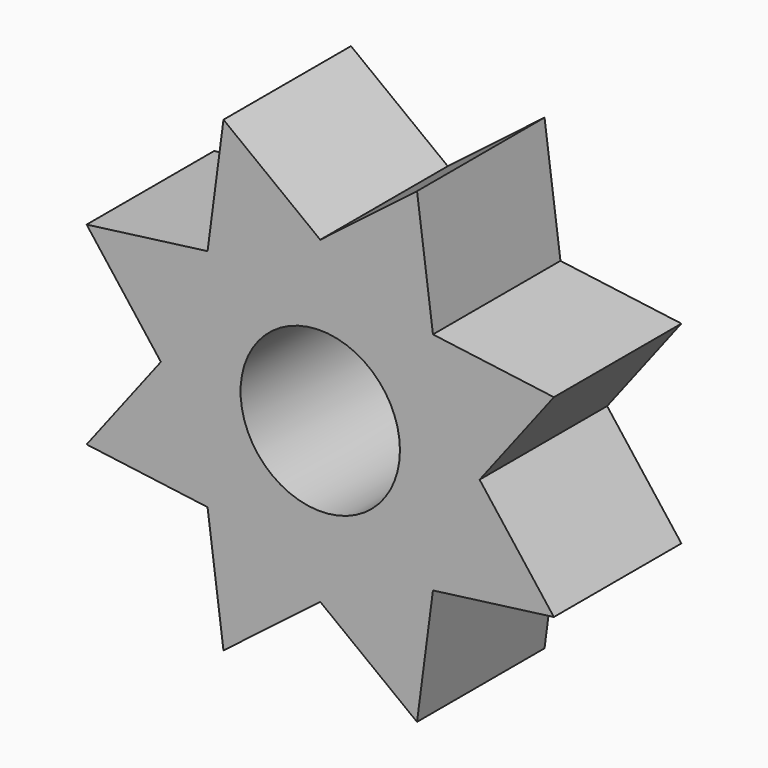
from build123d import *

# Parameters (mm, degrees)
F0_R     = 2
F1_DEPTH = 2


with BuildPart() as f1:
    # F0 (on Front) → F1 (new body, symmetric)
    with BuildSketch(Plane.XZ):
        with BuildLine():
            ThreePointArc((2.8284271247, -2.8284271247), (3.69551813, -1.5307337295), (4, 0))
            ThreePointArc((4, 0), (3.69551813, 1.5307337295), (2.8284271247, 2.8284271247))
            ThreePointArc((2.8284271247, 2.8284271247), (1.5307337295, 3.69551813), (0, 4))
            ThreePointArc((0, 4), (-1.5307337295, 3.69551813), (-2.8284271247, 2.8284271247))
            ThreePointArc((-2.8284271247, 2.8284271247), (-3.69551813, 1.5307337295), (-4, 0))
            ThreePointArc((-4, 0), (-3.69551813, -1.5307337295), (-2.8284271247, -2.8284271247))
            ThreePointArc((-2.8284271247, -2.8284271247), (-1.5307337295, -3.69551813), (0, -4))
            ThreePointArc((0, -4), (1.5307337295, -3.69551813), (2.8284271247, -2.8284271247))
        make_face()
        Circle(F0_R, mode=Mode.SUBTRACT)
        with BuildLine():
            Line((5.8637033052, -2.4288254347), (4, 0))
            ThreePointArc((4, 0), (3.69551813, -1.5307337295), (2.8284271247, -2.8284271247))
            Line((2.8284271247, -2.8284271247), (5.8637033052, -2.4288254347))
        make_face()
        with BuildLine():
            ThreePointArc((2.8284271247, 2.8284271247), (3.69551813, 1.5307337295), (4, 0))
            Line((4, 0), (5.8637033052, 2.4288254347))
            Line((5.8637033052, 2.4288254347), (2.8284271247, 2.8284271247))
        make_face()
        with BuildLine():
            ThreePointArc((0, 4), (1.5307337295, 3.69551813), (2.8284271247, 2.8284271247))
            Line((2.8284271247, 2.8284271247), (2.4288254347, 5.8637033052))
            Line((2.4288254347, 5.8637033052), (0, 4))
        make_face()
        with BuildLine():
            Line((2.4288254347, -5.8637033052), (2.8284271247, -2.8284271247))
            ThreePointArc((2.8284271247, -2.8284271247), (1.5307337295, -3.69551813), (0, -4))
            Line((0, -4), (2.4288254347, -5.8637033052))
        make_face()
        with BuildLine():
            ThreePointArc((-2.8284271247, 2.8284271247), (-1.5307337295, 3.69551813), (0, 4))
            Line((0, 4), (-2.4288254347, 5.8637033052))
            Line((-2.4288254347, 5.8637033052), (-2.8284271247, 2.8284271247))
        make_face()
        with BuildLine():
            Line((-2.4288254347, -5.8637033052), (0, -4))
            ThreePointArc((0, -4), (-1.5307337295, -3.69551813), (-2.8284271247, -2.8284271247))
            Line((-2.8284271247, -2.8284271247), (-2.4288254347, -5.8637033052))
        make_face()
        with BuildLine():
            ThreePointArc((-4, 0), (-3.69551813, 1.5307337295), (-2.8284271247, 2.8284271247))
            Line((-2.8284271247, 2.8284271247), (-5.8637033052, 2.4288254347))
            Line((-5.8637033052, 2.4288254347), (-4, 0))
        make_face()
        with BuildLine():
            Line((-5.8637033052, -2.4288254347), (-2.8284271247, -2.8284271247))
            ThreePointArc((-2.8284271247, -2.8284271247), (-3.69551813, -1.5307337295), (-4, 0))
            Line((-4, 0), (-5.8637033052, -2.4288254347))
        make_face()
    extrude(amount=F1_DEPTH, both=True)


solid = f1.part
